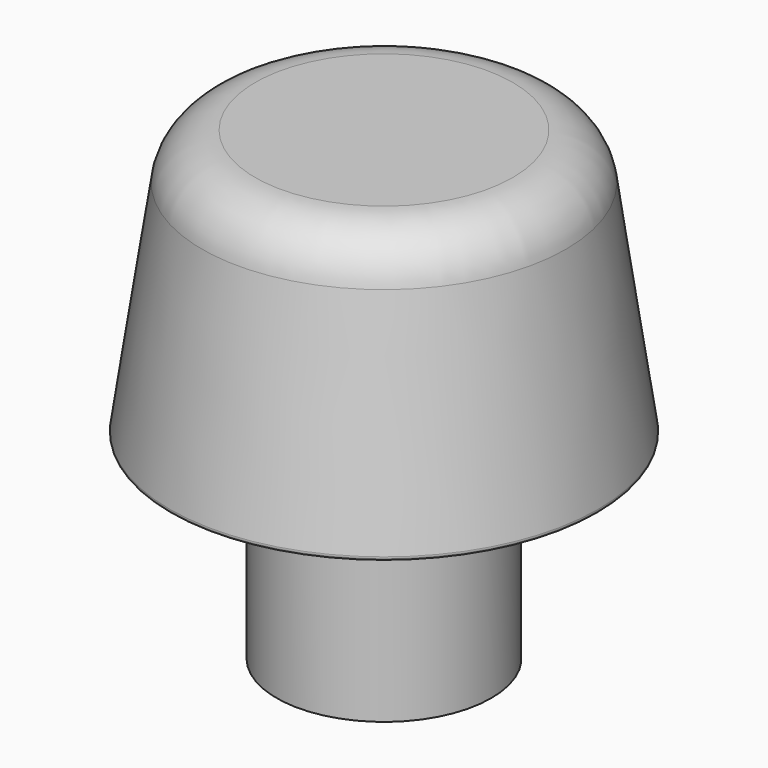
from build123d import *

# Parameters (mm, degrees)
F2_R     = 0.5
F3_DEPTH = 25


with BuildPart() as f1:
    # F0 (on Front) → F1 (revolve)
    with BuildSketch(Plane.XZ):
        with BuildLine():
            Line((5.420953, 0), (0, 0))
            Line((0, 0), (0, -0.5))
            Line((0, -0.5), (0, -6))
            Line((0, -6), (3, -6))
            Line((3, -6), (3, -0.5))
            Line((3, -0.5), (5.884191, -0.5))
            ThreePointArc((5.884191, -0.5), (5.959879, -0.465356), (5.983123, -0.385427))
            Line((5.983123, -0.385427), (5.083987, 5.718595))
            ThreePointArc((5.083987, 5.718595), (4.580334, 6.635318), (3.6, 7))
            Line((3.6, 7), (0, 7))
            Line((0, 7), (0, 6.5))
            Line((0, 6.5), (3.6, 6.5))
            ThreePointArc((3.6, 6.5), (4.253556, 6.256878), (4.589324, 5.64573))
            Line((4.589324, 5.64573), (5.420953, 0))
        make_face()
    revolve(axis=Axis((0, 0, 3.25), (0, 0, -1)))

    # F2 (on Front) → F3 (cut)
    with BuildSketch(Plane.XZ):
        with Locations((0, 4.614573)):
            Circle(F2_R)
    extrude(amount=-F3_DEPTH, mode=Mode.SUBTRACT)


solid = f1.part
